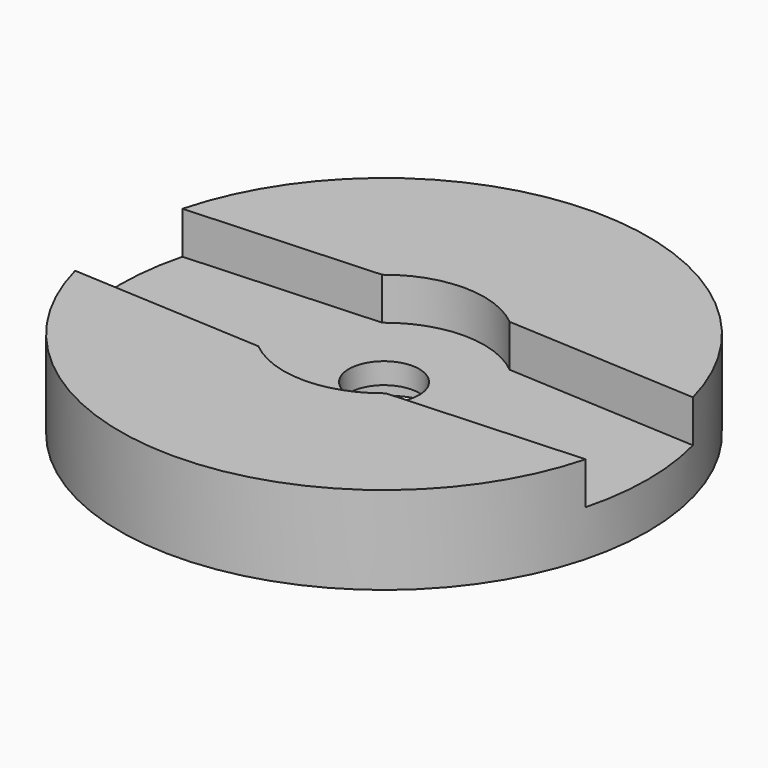
from build123d import *

# Parameters (mm, degrees)
F0_R     = 9.525
F1_DEPTH = 3.175
F3_DEPTH = 1.524
F4_R     = 1.27
F5_DEPTH = 25.4
F6_R     = 2.3495
F7_DEPTH = 0.889


with BuildPart() as f1:
    # F0 (on Top) → F1 (new body)
    with BuildSketch(Plane.XY):
        Circle(F0_R)
    extrude(amount=F1_DEPTH)

    # F2 (on face) → F3 (cut)
    with BuildSketch(Plane.XY.offset(3.175)):
        with BuildLine():
            Line((2.3009442084, -2.794), (14.0832249425, -2.159))
            ThreePointArc((14.0832249425, -2.159), (16.129, 0), (14.0832249425, 2.159))
            Line((14.0832249425, 2.159), (2.3009442084, 2.794))
            ThreePointArc((2.3009442084, 2.794), (0, 3.6195), (-2.3009442084, 2.794))
            Line((-2.3009442084, 2.794), (-14.0832249425, 2.159))
            ThreePointArc((-14.0832249425, 2.159), (-16.129, 0), (-14.0832249425, -2.159))
            Line((-14.0832249425, -2.159), (-2.3009442084, -2.794))
            ThreePointArc((-2.3009442084, -2.794), (0, -3.6195), (2.3009442084, -2.794))
        make_face()
    extrude(amount=-F3_DEPTH, mode=Mode.SUBTRACT)

    # F4 (on face) → F5 (cut)
    with BuildSketch(Plane.XY.offset(1.651)):
        Circle(F4_R)
    extrude(amount=-F5_DEPTH, mode=Mode.SUBTRACT)

    # F6 (on face) → F7 (cut, through all)
    with BuildSketch(Plane(origin=(0, 0, 0), x_dir=(1, 0, 0), z_dir=(0, 0, -1))):
        Circle(F6_R)
    extrude(amount=-F7_DEPTH, mode=Mode.SUBTRACT)


solid = f1.part
